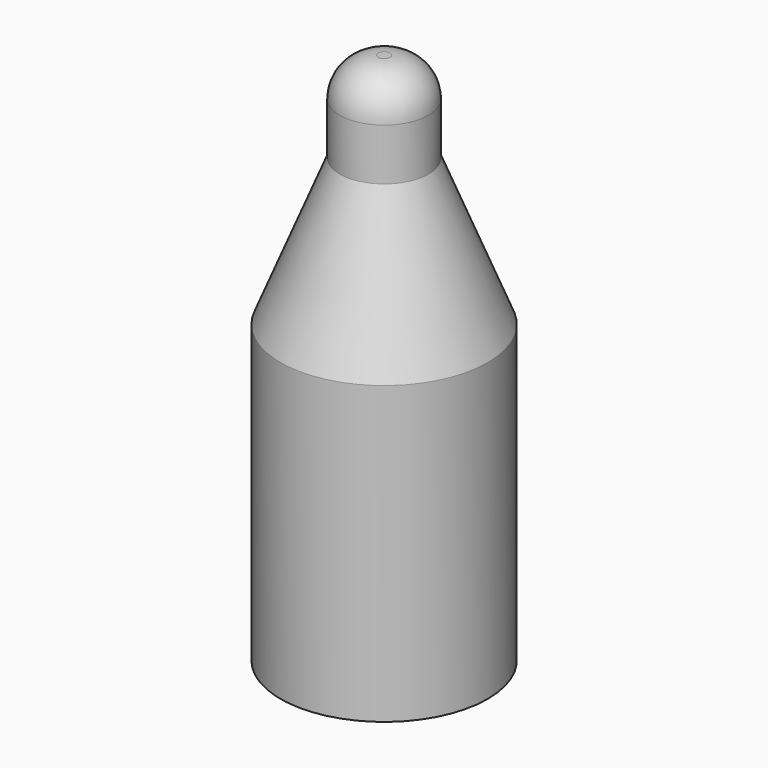
from build123d import *

# Parameters (mm, degrees)
F0_R      = 3.5
F0_R_2    = 1.5
F1_DEPTH  = 10
F1_FACE_R = 3.5
F2_DEPTH  = 5
F2_TAPER  = 22
F3_DEPTH  = 18
F4_R      = 1.3


with BuildPart() as f1:
    # F0 (on Top) → F1 (new body)
    with BuildSketch(Plane.XY):
        Circle(F0_R)
        Circle(F0_R_2, mode=Mode.SUBTRACT)
        Circle(F0_R_2)
    extrude(amount=F1_DEPTH)

    # F1_face (on face) → F2 (join)
    with BuildSketch(Plane.XY.offset(10)):
        Circle(F1_FACE_R)
    extrude(amount=F2_DEPTH, taper=F2_TAPER)

    # F0 (on Top) → F3 (join)
    with BuildSketch(Plane.XY):
        Circle(F0_R_2)
    extrude(amount=F3_DEPTH)

    # F4
    f4_edges = [f1.edges().sort_by_distance(p)[0] for p in [
        (-1.5, 0, 18),
    ]]
    fillet(f4_edges, radius=F4_R)


solid = f1.part
